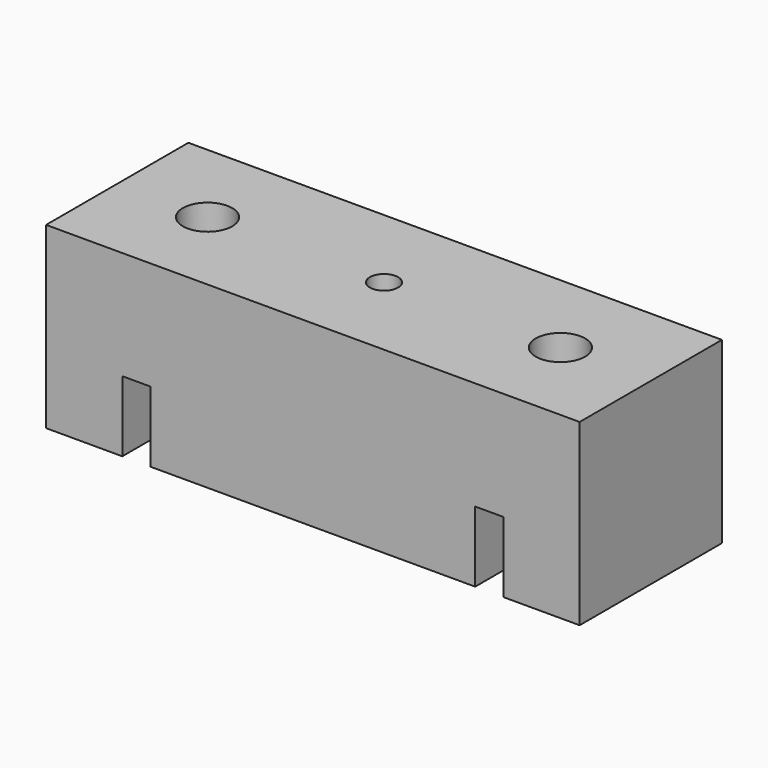
from build123d import *

# Parameters (mm, degrees)
F1_DEPTH       = 12.6
F4_D           = 2
F4_DEPTH       = 38
F4_CBORE_D     = 3.5
F4_CBORE_DEPTH = 3
F5_D           = 2
F5_DEPTH       = 38
F5_CBORE_D     = 3.5
F5_CBORE_DEPTH = 3


with BuildPart() as f1:
    # F0 (on Front) → F1 (new body)
    with BuildSketch(Plane.XZ):
        Polygon((18.9, 6.34), (-18.9, 6.34), (-18.9, -6.34), (-13.5, -6.34), (-13.5, -1.34), (-11.5, -1.34), (-11.5, -6.34), (11.5, -6.34), (11.5, -1.34), (13.5, -1.34), (13.5, -6.34), (18.9, -6.34), align=None)
    extrude(amount=F1_DEPTH)

    # F4
    with Locations(Plane(origin=(0, 0, -6.34), x_dir=(1, 0, 0), z_dir=(0, 0, -1))):
        with Locations((0, 6.3)):
            CounterBoreHole(F4_D / 2, F4_CBORE_D / 2, F4_CBORE_DEPTH, depth=F4_DEPTH)

    # F5
    with Locations(Plane.XY.offset(6.34)):
        with Locations((-12.5, -6.3), (12.5, -6.3)):
            CounterBoreHole(F5_D / 2, F5_CBORE_D / 2, F5_CBORE_DEPTH, depth=F5_DEPTH)


solid = f1.part
